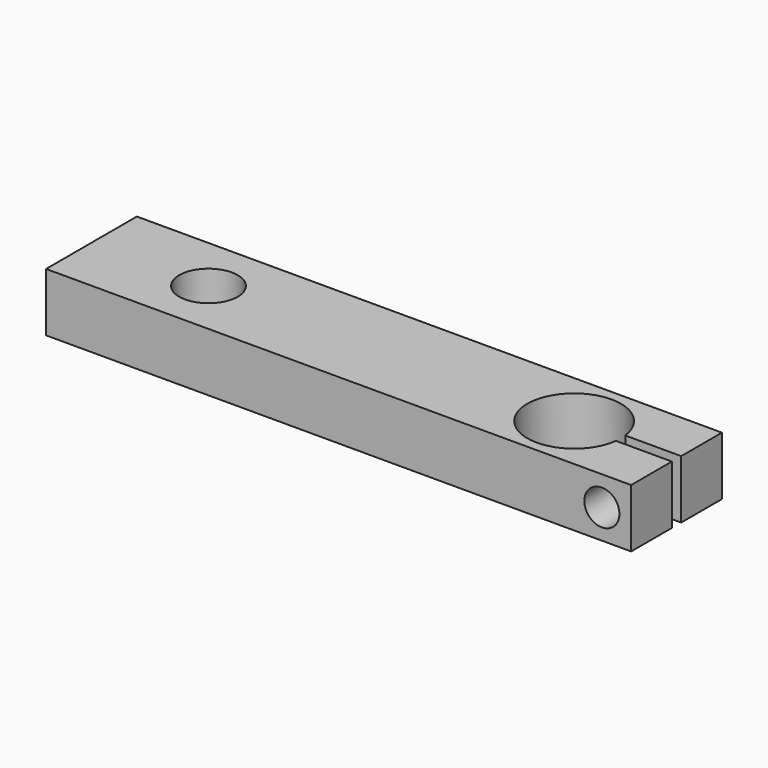
from build123d import *

# Parameters (mm, degrees)
SKETCH048_W           = 9.7
SKETCH048_H           = 50
SKETCH048_R           = 4
SKETCH048_R_2         = 2.5
PAD028_DEPTH          = 5
SKETCH049_W           = 1
SKETCH049_H           = 5.04
POCKET023_DEPTH       = 5.001
SKETCH050_R           = 1.5
POCKET024_DEPTH       = 9.701
CLONE_PLACEMENT_ANGLE = 90


with BuildPart() as part:
    # Sketch048 → Pad028 (new body)
    with BuildSketch(Plane.XY):
        Rectangle(SKETCH048_W, SKETCH048_H)
        with Locations((0, -16.25)):
            Circle(SKETCH048_R, mode=Mode.SUBTRACT)
        with Locations((0, 15)):
            Circle(SKETCH048_R_2, mode=Mode.SUBTRACT)
    extrude(amount=PAD028_DEPTH)

    # Sketch049 (on Face8 of Pad028) → Pocket023 (cut, through all)
    with BuildSketch(Plane.XY.offset(5)):
        with Locations((0, -22.48)):
            Rectangle(SKETCH049_W, SKETCH049_H)
    extrude(amount=-POCKET023_DEPTH, mode=Mode.SUBTRACT)

    # Sketch050 (on Face3 of Pocket023) → Pocket024 (cut, through all)
    with BuildSketch(Plane.YZ.offset(4.85)):
        with Locations((-22.5, 2.5)):
            Circle(SKETCH050_R)
    extrude(amount=-POCKET024_DEPTH, mode=Mode.SUBTRACT)


with BuildPart() as part_1:
    # Clone placement: moved
    add(part.part.moved(Location((-326, 1, 493))).rotate(Axis((-326, 1, 493), (0, 0, 1)), CLONE_PLACEMENT_ANGLE))


with BuildPart() as part_2:
    # Clone044 placement: moved
    add(part_1.part.moved(Location((0, -410, 0))))


solid = part_2.part
